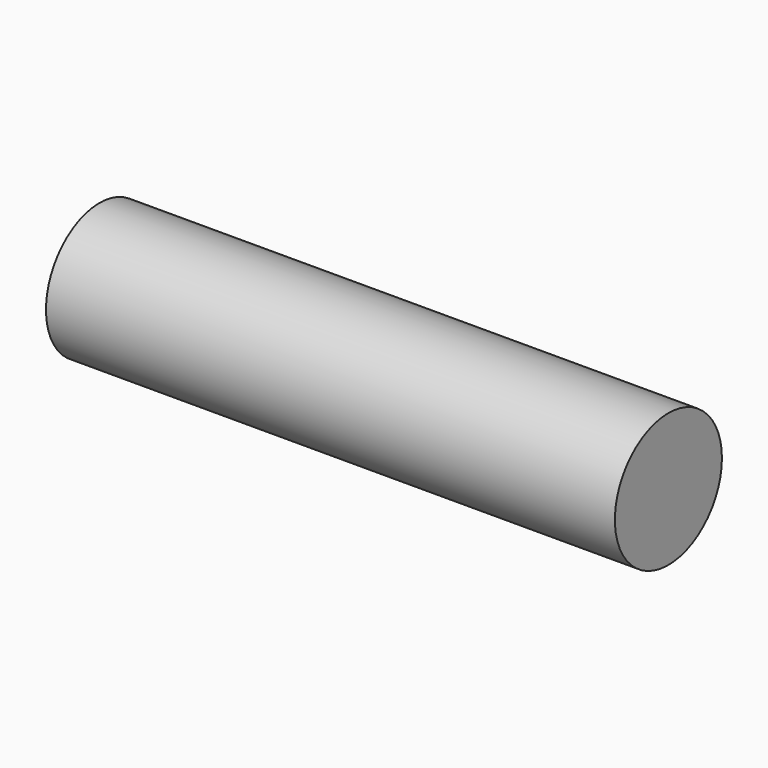
from build123d import *

# Parameters (mm, degrees)
F1_R     = 12.7
F2_DEPTH = 54


with BuildPart() as f2:
    # F1 (on Right) → F2 (new body, symmetric)
    with BuildSketch(Plane.YZ):
        Circle(F1_R)
    extrude(amount=F2_DEPTH, both=True)

    # F0 (on Front) → F3 (revolve, cut)
    with BuildSketch(Plane.XZ):
        Polygon((-54, 0), (0, 0), (6.0002, 0), (6.0002, 3.96875), (-21, 3.96875), (-54, 12.446), align=None)
    revolve(axis=Axis((-27, 0, 0), (1, 0, 0)), mode=Mode.SUBTRACT)


solid = f2.part
